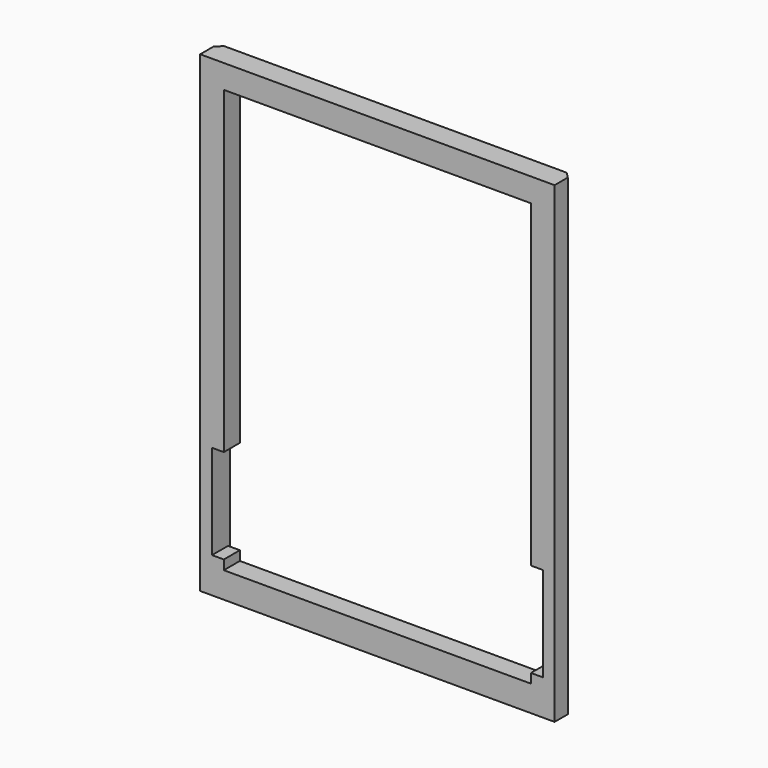
from build123d import *

# Parameters (mm, degrees)
F0_W      = 300
F0_H      = 400
F1_DEPTH  = 19
F2_W      = 280
F2_H      = 380
F3_DEPTH  = 2
F4_W      = 260
F4_H      = 358
F5_DEPTH  = 17
F6_SIZE   = 5
F7_W      = 10
F7_H      = 80
F8_DEPTH  = 17
F9_W      = 10
F9_H      = 80
F10_DEPTH = 17


with BuildPart() as f1:
    # F0 (on Front) → F1 (new body)
    with BuildSketch(Plane.XZ):
        with Locations((-31.717002, 227.192586)):
            Rectangle(F0_W, F0_H)
    extrude(amount=F1_DEPTH)

    # F2 (on face) → F3 (cut)
    with BuildSketch(Plane(origin=(0, 0, 0), x_dir=(-1, 0, 0), z_dir=(0, 1, 0))):
        with Locations((31.717002, 227.192586)):
            Rectangle(F2_W, F2_H)
    extrude(amount=-F3_DEPTH, mode=Mode.SUBTRACT)

    # F4 (on face) → F5 (cut)
    with BuildSketch(Plane(origin=(0, -2, 0), x_dir=(-1, 0, 0), z_dir=(0, 1, 0))):
        with Locations((31.717002, 228.192586)):
            Rectangle(F4_W, F4_H)
    extrude(amount=-F5_DEPTH, mode=Mode.SUBTRACT)

    # F6
    f6_edges = [f1.edges().sort_by_distance(p)[0] for p in [
        (118.282998, 0, 227.192586),
        (-181.717002, 0, 227.192586),
    ]]
    chamfer(f6_edges, length=F6_SIZE)

    # F7 (on face) → F8 (cut)
    with BuildSketch(Plane(origin=(0, -2, 0), x_dir=(-1, 0, 0), z_dir=(0, 1, 0))):
        with Locations((-103.282998, 97.192586)):
            Rectangle(F7_W, F7_H)
    extrude(amount=-F8_DEPTH, mode=Mode.SUBTRACT)

    # F9 (on face) → F10 (cut)
    with BuildSketch(Plane(origin=(0, -2, 0), x_dir=(-1, 0, 0), z_dir=(0, 1, 0))):
        with Locations((166.717002, 97.192586)):
            Rectangle(F9_W, F9_H)
    extrude(amount=-F10_DEPTH, mode=Mode.SUBTRACT)


solid = f1.part
